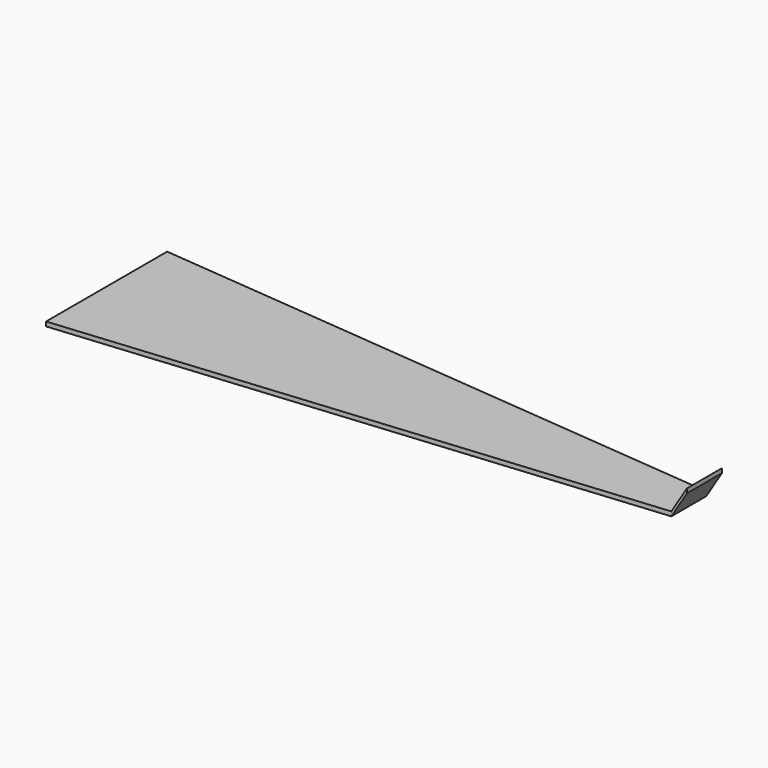
from build123d import *

# Parameters (mm, degrees)
F1_DEPTH  = 1.5
F1_FACE_W = 15
F1_FACE_H = 1.5


with BuildPart() as f1:
    # F0 (on Top) → F1 (new body)
    with BuildSketch(Plane.XY):
        Polygon((-40.905982, 26), (-40.905982, -26), (159.094018, -7.37931), (159.094018, 7.62069), align=None)
    extrude(amount=F1_DEPTH)

    # F3: sweep along a path in F2
    with BuildLine(Plane.XZ) as f3_path:
        Line((159.099758, 0), (164.489537, 8.747499))
    # F1_face (on face) → F3 (sweep)
    with BuildSketch(Plane(origin=(159.094018, 0.12069, 0.75), x_dir=(0, 1, 0), z_dir=(1, 0, 0))):
        Rectangle(F1_FACE_W, F1_FACE_H)
    sweep(path=f3_path.line)


solid = f1.part
